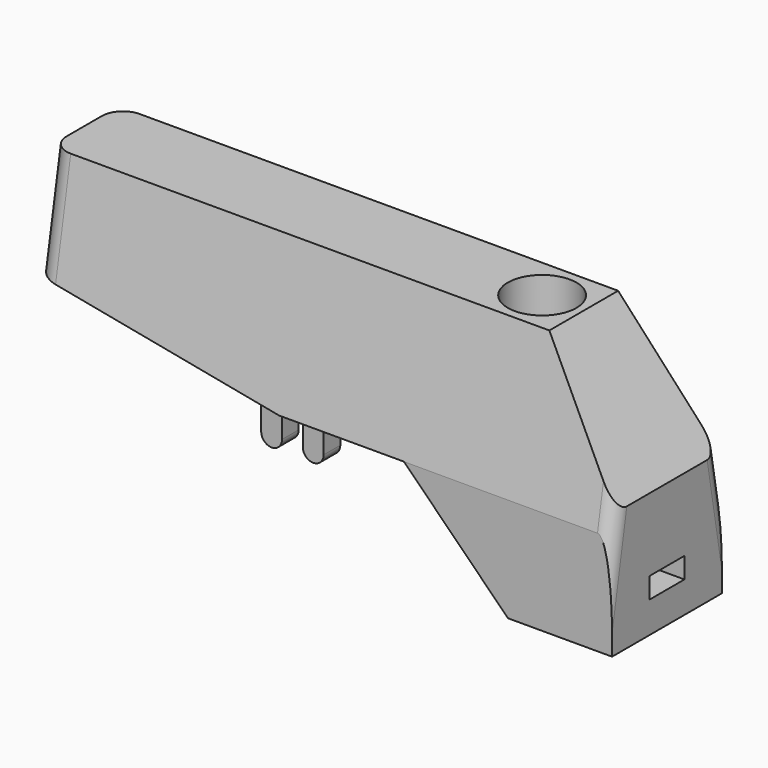
from build123d import *

# Parameters (mm, degrees)
CYLINDER_R      = 1.65
CYLINDER_DEPTH  = 30
PAD005_DEPTH    = 1.05
PAD001_DEPTH    = 3.3
POCKET004_DEPTH = 28.001
PAD002_DEPTH    = 0.5
FILLET_R        = 0.7
FILLET002_R     = 1


with BuildPart() as black_led_base:
    # Cylinder → Cylinder (join)
    with BuildSketch(Plane(origin=(-6, 0, -15), x_dir=(1, 0, 0), z_dir=(0, 0, 1))):
        Circle(CYLINDER_R)
    extrude(amount=CYLINDER_DEPTH)


with BuildPart() as obj1:
    # Sketch016 → Pad005 (new body, symmetric)
    with BuildSketch(Plane.XZ):
        Polygon((-6, 2.5), (-6, -0.5), (0, -0.5), (0, 0.5), align=None)
    extrude(amount=PAD005_DEPTH, both=True)


with BuildPart() as black_d:
    # Sketch005 → Pad001 (new body, symmetric)
    with BuildSketch(Plane.XZ):
        Polygon((0, 0), (0, -2), (-5, -2), (-10, 3), (-16, 3), (-28, 5), (-28, 10), (-4, 10), (0, 4), align=None)
    extrude(amount=PAD001_DEPTH, both=True)

    # Sketch006 → Pocket004 (cut, through all)
    with BuildSketch(Plane.YZ):
        Polygon((-3.3, 0), (-3.3, 3), (0, 21.71523), (3.3, 3), (3.3, 0), (13, 0), (13, 26), (-13, 26), (-13, 0), align=None)
    extrude(amount=-POCKET004_DEPTH, mode=Mode.SUBTRACT)

    # Sketch008 → Pad002 (join, symmetric)
    with BuildSketch(Plane.XZ.offset(2)):
        with BuildLine():
            ThreePointArc((-15.5, 1.5), (-15, 1), (-14.5, 1.5))
            Line((-14.5, 1.5), (-14.5, 3))
            ThreePointArc((-14.5, 3), (-15, 3.5), (-15.5, 3))
            Line((-15.5, 1.5), (-15.5, 3))
        make_face()
        with BuildLine():
            ThreePointArc((-16.5, 3), (-17, 3.5), (-17.5, 3))
            Line((-17.5, 3), (-17.5, 1.5))
            ThreePointArc((-17.5, 1.5), (-17, 1), (-16.5, 1.5))
            Line((-16.5, 3), (-16.5, 1.5))
        make_face()
    pad002 = extrude(amount=PAD002_DEPTH, both=True)

    # Mirrored001: Pad002 across XZ
    add(pad002.mirror(Plane.XZ))

    # Fillet
    fillet_edges = [black_d.edges().sort_by_distance(p)[0] for p in [
        (0, -3.211837, 3.5),
        (0, 3.211837, 3.5),
    ]]
    fillet(fillet_edges, radius=FILLET_R)

    # Fillet002
    fillet002_edges = [black_d.edges().sort_by_distance(p)[0] for p in [
        (-28, -2.506529, 7.5),
        (-28, 2.506529, 7.5),
    ]]
    fillet(fillet002_edges, radius=FILLET002_R)

    # Boolean001: cut black_led_BASE, obj1
    add(black_led_base.part, mode=Mode.SUBTRACT)
    add(obj1.part, mode=Mode.SUBTRACT)


with BuildPart() as black_d_1:
    # Clone009 placement: moved
    add(black_d.part.moved(Location((0, 22.95, 0))))


solid = black_d_1.part
